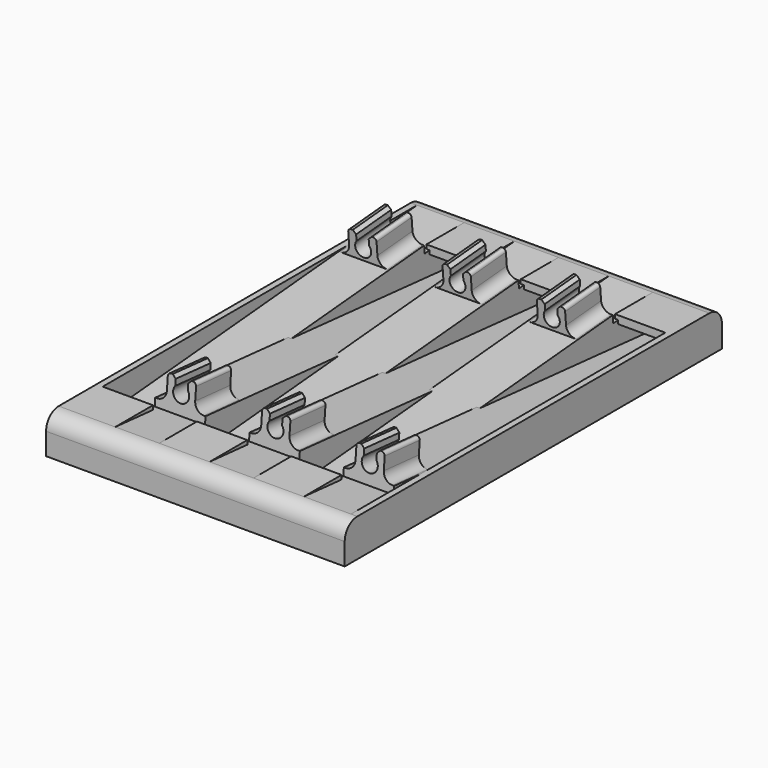
from build123d import *

# Parameters (mm, degrees)
F1_DEPTH  = 16
F3_DEPTH  = 25
F4_SIZE   = 1
F11_ANGLE = 180
F14_DEPTH = 2
F16_DEPTH = 2


with BuildPart() as f1:
    # F0 (on Right) → F1 (new body)
    with BuildSketch(Plane.YZ):
        with BuildLine():
            Line((0, 7), (0, 0))
            Line((0, 0), (150, 0))
            Line((150, 0), (150, 7))
            ThreePointArc((150, 7), (148.5355339059, 10.5355339059), (145, 12))
            Line((145, 12), (128.050036002, 10.517070303))
            Line((128.050036002, 10.517070303), (127.1432693018, 20.8814611121))
            Line((127.1432693018, 20.8814611121), (113.1965435286, 19.6612807136))
            Line((113.1965435286, 19.6612807136), (113.8937894705, 11.6917231289))
            Line((113.8937894705, 11.6917231289), (5.5800139851, 2.2154956702))
            Line((5.5800139851, 2.2154956702), (4.9427024368, 9.5))
            Line((4.9427024368, 9.5), (20, 9.5))
            Line((20, 9.5), (20, 12))
            Line((20, 12), (5, 12))
            ThreePointArc((5, 12), (1.4644660941, 10.5355339059), (0, 7))
        make_face()
    extrude(amount=F1_DEPTH)

    # F2 (on face) → F3 (cut)
    with BuildSketch(Plane(origin=(0, 114.0437613881, 9.9775362673), x_dir=(1, 0, 0), z_dir=(0, -0.9961946981, -0.0871557427))):
        with BuildLine():
            Line((6, 9.7207347769), (6, 6.8026639789))
            ThreePointArc((6, 6.8026639789), (8, 2.6707347769), (10, 6.8026639789))
            Line((10, 6.8026639789), (10, 9.7207347769))
            Line((10, 9.7207347769), (11.5, 9.7207347769))
            ThreePointArc((11.5, 9.7207347769), (12.2071067812, 9.4278415581), (12.5, 8.7207347769))
            Line((12.5, 8.7207347769), (12.5, 4.7207347769))
            ThreePointArc((12.5, 4.7207347769), (13.3786796564, 2.5994144334), (15.5, 1.7207347769))
            Line((15.5, 1.7207347769), (18.5, 1.7207347769))
            Line((18.5, 1.7207347769), (18.5, 10.7207347769))
            Line((18.5, 10.7207347769), (-2.5, 10.7207347769))
            Line((-2.5, 10.7207347769), (-2.5, 1.7207347769))
            Line((-2.5, 1.7207347769), (0.5, 1.7207347769))
            ThreePointArc((0.5, 1.7207347769), (2.6213203436, 2.5994144334), (3.5, 4.7207347769))
            Line((3.5, 4.7207347769), (3.5, 8.7207347769))
            ThreePointArc((3.5, 8.7207347769), (3.7928932188, 9.4278415581), (4.5, 9.7207347769))
            Line((4.5, 9.7207347769), (6, 9.7207347769))
        make_face()
    extrude(amount=-F3_DEPTH, mode=Mode.SUBTRACT)

    # F4
    f4_edges = [f1.edges().sort_by_distance(p)[0] for p in [
        (6, 120.169906, 20.271371),
        (10, 120.169906, 20.271371),
    ]]
    chamfer(f4_edges, length=F4_SIZE)


with BuildPart() as f5_1:
    # F5: copy of F1
    add(f1.part.moved(Location((30, 0, 0))))


with BuildPart() as f6_1:
    # F6: copy of F5_1
    add(f5_1.part.moved(Location((30, 0, 0))))


with BuildPart() as f7_1:
    # F7: copy of F1
    add(f1.part.moved(Location((0, 160, 0))))


with BuildPart() as f8_1:
    # F8: copy of F5_1
    add(f5_1.part.moved(Location((0, 160, 0))))


with BuildPart() as f9_1:
    # F9: copy of F6_1
    add(f6_1.part.moved(Location((0, 160, 0))))


with BuildPart() as f8_1_1:
    # F11: moved
    add(f8_1.part.rotate(Axis((0, 0, 25), (0, 0, 1)), F11_ANGLE))


with BuildPart() as f9_1_1:
    # F11: moved
    add(f9_1.part.rotate(Axis((0, 0, 25), (0, 0, 1)), F11_ANGLE))


with BuildPart() as f7_1_1:
    # F11: moved
    add(f7_1.part.rotate(Axis((0, 0, 25), (0, 0, 1)), F11_ANGLE))


with BuildPart() as f7_1_2:
    # F12: moved
    add(f7_1_1.part.moved(Location((91, 310, 0))))

    # F13 (on face) → F14 (join)
    with BuildSketch(Plane.YZ.offset(91)):
        with BuildLine():
            Line((0, 7), (0, 0))
            Line((0, 0), (150, 0))
            Line((150, 0), (150, 7))
            ThreePointArc((150, 7), (148.5355339059, 10.5355339059), (145, 12))
            Line((145, 12), (5, 12))
            ThreePointArc((5, 12), (1.4644660941, 10.5355339059), (0, 7))
        make_face()
    extrude(amount=F14_DEPTH)


with BuildPart() as f8_1_2:
    # F12: moved
    add(f8_1_1.part.moved(Location((91, 310, 0))))


with BuildPart() as f9_1_2:
    # F12: moved
    add(f9_1_1.part.moved(Location((91, 310, 0))))


with BuildPart() as f1_1:
    add(f1.part)

    add(f5_1.part)  # F16 merges F5_1

    add(f6_1.part)  # F16 merges F6_1

    add(f7_1_2.part)  # F16 merges F7_1

    add(f8_1_2.part)  # F16 merges F8_1

    add(f9_1_2.part)  # F16 merges F9_1
    # F15 (on face) → F16 (join)
    with BuildSketch(Plane(origin=(0, 0, 0), x_dir=(0, -1, 0), z_dir=(-1, 0, 0))):
        with BuildLine():
            Line((-150, 0), (0, 0))
            Line((0, 0), (0, 7))
            ThreePointArc((0, 7), (-1.4644660941, 10.5355339059), (-5, 12))
            Line((-5, 12), (-145, 12))
            ThreePointArc((-145, 12), (-148.5355339059, 10.5355339059), (-150, 7))
            Line((-150, 7), (-150, 0))
        make_face()
    extrude(amount=F16_DEPTH)


solid = f1_1.part
